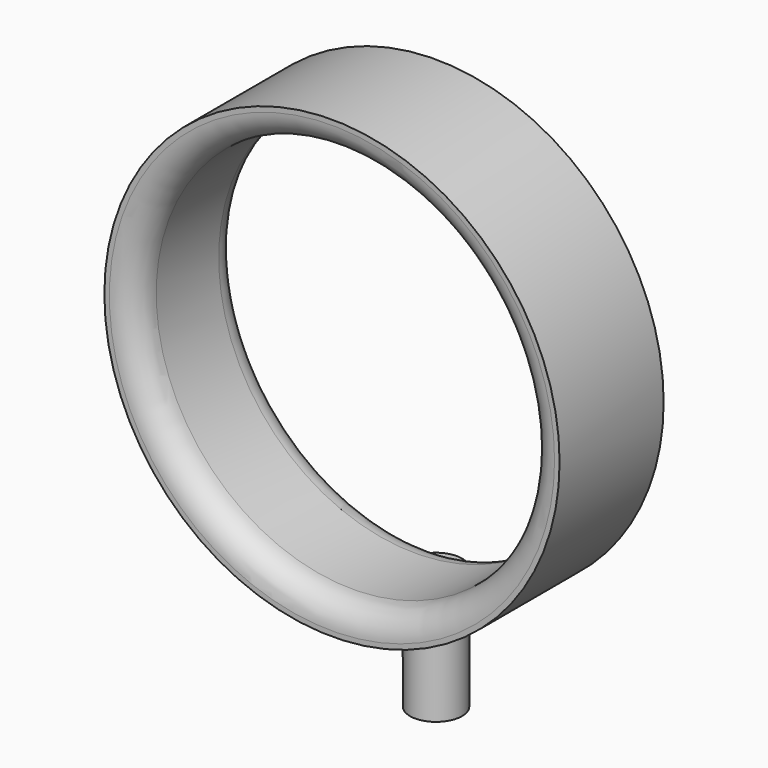
from build123d import *

# Parameters (mm, degrees)
F0_R     = 44.451674
F0_R_2   = 38.390752
F1_DEPTH = 25.4
F2_R     = 5.08
F3_W     = 5.08
F3_H     = 23.807657


with BuildPart() as f1:
    # F0 (on Front) → F1 (new body)
    with BuildSketch(Plane.XZ):
        with Locations((0, 42.992625)):
            Circle(F0_R)
        with Locations((0, 42.992625)):
            Circle(F0_R_2, mode=Mode.SUBTRACT)
    extrude(amount=F1_DEPTH)

    # F2
    f2_edges = [f1.edges().sort_by_distance(p)[0] for p in [
        (-38.390752, -25.4, 42.992625),
        (-38.390752, 0, 42.992625),
    ]]
    fillet(f2_edges, radius=F2_R)

    # F3 (on Front) → F4 (revolve)
    with BuildSketch(Plane.XZ):
        with Locations((-2.54, -11.903828)):
            Rectangle(F3_W, F3_H)
    revolve(axis=Axis((0, 0, -11.903828), (0, 0, -1)))


solid = f1.part
